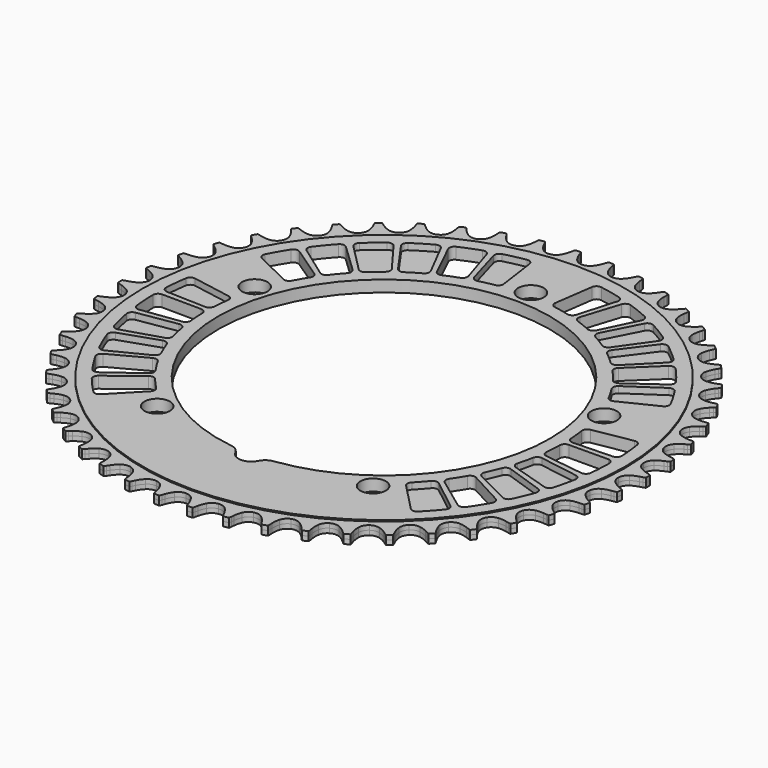
from build123d import *

# Parameters (mm, degrees)
F0_R     = 94.548198
F0_R_2   = 5
F1_DEPTH = 2.25
F2_DEPTH = 1.75
F3_R     = 5.08
F5_DEPTH = 4.5
F6_DEPTH = 2.5
F7_R     = 2


with BuildPart() as f1:
    # F0 (on Top) → F1 (new body, symmetric)
    with BuildSketch(Plane.XY):
        Circle(F0_R)
        with Locations((-42.3205381651, -58.249223595)):
            Circle(F0_R_2, mode=Mode.SUBTRACT)
        with Locations((42.3205381651, -58.249223595)):
            Circle(F0_R_2, mode=Mode.SUBTRACT)
        with BuildLine():
            ThreePointArc((-4.9963004064, -64.8076923077), (-44.1601657242, 47.6956996302), (65, 0))
            ThreePointArc((65, 0), (47.6956996302, -44.1601657242), (4.9963004064, -64.8076923077))
            ThreePointArc((4.9963004064, -64.8076923077), (4.9990750161, -64.9038283624), (5, -65))
            ThreePointArc((5, -65), (-0.0961716376, -69.9990750161), (-4.9963004064, -64.8076923077))
        make_face(mode=Mode.SUBTRACT)
        with Locations((-68.4760691733, 22.249223595)):
            Circle(F0_R_2, mode=Mode.SUBTRACT)
        with Locations((68.4760691733, 22.249223595)):
            Circle(F0_R_2, mode=Mode.SUBTRACT)
        with Locations((0, 72)):
            Circle(F0_R_2, mode=Mode.SUBTRACT)
    extrude(amount=F1_DEPTH, both=True)

    # F0 (on Top) → F2 (join, symmetric)
    with BuildSketch(Plane.XY):
        with BuildLine():
            ThreePointArc((0, 97.04819935), (-1.8166103321, 97.4826526229), (-3.2400971577, 98.6919945936))
            ThreePointArc((-3.2400971577, 98.6919945936), (-4.0569512973, 99.983682471), (-4.6755482164, 101.381196732))
            Line((-4.6755482164, 101.381196732), (-5.0622417218, 102.4841856331))
            ThreePointArc((-5.0622417218, 102.4841856331), (-5.2385890004, 102.9324556245), (-5.4481178225, 103.3662090343))
            ThreePointArc((-5.4481178225, 103.3662090343), (-6.4994269791, 103.3054335786), (-7.5500634333, 103.2339658256))
            ThreePointArc((-7.5500634333, 103.2339658256), (-7.7035763407, 102.7773717662), (-7.8223499408, 102.3105343429))
            Line((-7.8223499408, 102.3105343429), (-8.0677530869, 101.1677772913))
            ThreePointArc((-8.0677530869, 101.1677772913), (-8.5063172032, 99.7037520956), (-9.1548387855, 98.3198705922))
            ThreePointArc((-9.1548387855, 98.3198705922), (-10.4155302527, 96.9416544374), (-12.1633646361, 96.2829453112))
            ThreePointArc((-12.1633646361, 96.2829453112), (-14.0201018866, 96.4862911433), (-15.5839348331, 97.5076868846))
            ThreePointArc((-15.5839348331, 97.5076868846), (-16.5562392523, 98.6868104466), (-17.3451133312, 99.995774138))
            Line((-17.3451133312, 99.995774138), (-17.8669988084, 101.0416000948))
            ThreePointArc((-17.8669988084, 101.0416000948), (-18.0981386636, 101.4642331687), (-18.3603790058, 101.8683053785))
            ThreePointArc((-18.3603790058, 101.8683053785), (-19.3957810913, 101.6762451794), (-20.4291756787, 101.4736613068))
            ThreePointArc((-20.4291756787, 101.4736613068), (-20.524251681, 101.0014273589), (-20.583578472, 100.5233848088))
            Line((-20.583578472, 100.5233848088), (-20.6838211045, 99.3588815681))
            ThreePointArc((-20.6838211045, 99.3588815681), (-20.935436, 97.8514339894), (-21.4053974522, 96.3971834981))
            ThreePointArc((-21.4053974522, 96.3971834981), (-22.4834117034, 94.8718284512), (-24.1349057459, 93.9992517083))
            ThreePointArc((-24.1349057459, 93.9992517083), (-26.0024880593, 93.9682832142), (-27.6820045469, 94.7856247051))
            ThreePointArc((-27.6820045469, 94.7856247051), (-28.7944254241, 95.8335884687), (-29.7411356474, 97.0333584513))
            Line((-29.7411356474, 97.0333584513), (-30.3899826506, 98.0055281636))
            ThreePointArc((-30.3899826506, 98.0055281636), (-30.6722698687, 98.3958591441), (-30.9830860441, 98.7638776938))
            ThreePointArc((-30.9830860441, 98.7638776938), (-31.9862521491, 98.4435616553), (-32.9861076197, 98.1130565319))
            ThreePointArc((-32.9861076197, 98.1130565319), (-33.0212473117, 97.6326301068), (-33.0201916746, 97.1509214465))
            Line((-33.0201916746, 97.1509214465), (-32.9736929074, 95.9830369283))
            ThreePointArc((-32.9736929074, 95.9830369283), (-33.0343904648, 94.4559403156), (-33.3183802142, 92.9542552354))
            ThreePointArc((-33.3183802142, 92.9542552354), (-34.1967163206, 91.3058170567), (-35.7258249746, 90.2331337534))
            ThreePointArc((-35.7258249746, 90.2331337534), (-37.5747994621, 89.9683393249), (-39.3435125125, 90.5687366018))
            ThreePointArc((-39.3435125125, 90.5687366018), (-40.578506306, 91.4690135525), (-41.6681224878, 92.5406687369))
            Line((-41.6681224878, 92.5406687369), (-42.4336983123, 93.4238505077))
            ThreePointArc((-42.4336983123, 93.4238505077), (-42.7626810553, 93.7757236419), (-43.1171713072, 94.1018846591))
            ThreePointArc((-43.1171713072, 94.1018846591), (-44.0722809029, 93.6583643565), (-45.0228289387, 93.2051502455))
            ThreePointArc((-45.0228289387, 93.2051502455), (-44.9974781463, 92.7241079551), (-44.9360567292, 92.2463300178))
            Line((-44.9360567292, 92.2463300178), (-44.7435498756, 91.0934824588))
            ThreePointArc((-44.7435498756, 91.0934824588), (-44.6123728582, 89.5708200379), (-44.7059122167, 88.0453828394))
            ThreePointArc((-44.7059122167, 88.0453828394), (-45.3707182933, 86.2998583837), (-46.7533266018, 85.0439853766))
            ThreePointArc((-46.7533266018, 85.0439853766), (-48.5545338313, 84.54954098), (-50.3845497832, 84.9235254191))
            ThreePointArc((-50.3845497832, 84.9235254191), (-51.7226399031, 85.6619176516), (-52.9379781454, 86.5885573954))
            Line((-52.9379781454, 86.5885573954), (-53.8082092029, 87.3688229205))
            ThreePointArc((-53.8082092029, 87.3688229205), (-54.1786992165, 87.676688959), (-54.5712730218, 87.9558486896))
            ThreePointArc((-54.5712730218, 87.9558486896), (-55.4632634594, 87.396118703), (-56.34951335, 86.8273430617))
            ThreePointArc((-56.34951335, 86.8273430617), (-56.2640718704, 86.3532712302), (-56.1432533258, 85.8869588595))
            Line((-56.1432533258, 85.8869588595), (-55.8077743338, 84.7673293542))
            ThreePointArc((-55.8077743338, 84.7673293542), (-55.4867914815, 83.2731144211), (-55.3884052775, 81.7479821603))
            ThreePointArc((-55.3884052775, 81.7479821603), (-55.8291969353, 79.932899391), (-57.0435003395, 78.5136425476))
            ThreePointArc((-57.0435003395, 78.5136425476), (-58.7685341969, 77.7973458663), (-60.6309926054, 77.9390195098))
            ThreePointArc((-60.6309926054, 77.9390195098), (-62.0510765712, 78.5038821374), (-63.3729702639, 79.2708927783))
            Line((-63.3729702639, 79.2708927783), (-64.3341324909, 79.9359368042))
            ThreePointArc((-64.3341324909, 79.9359368042), (-64.7402869262, 80.1949405157), (-65.1647531615, 80.422696444))
            ThreePointArc((-65.1647531615, 80.422696444), (-65.979557219, 79.7555840497), (-66.7875322741, 79.0802168096))
            ThreePointArc((-66.7875322741, 79.0802168096), (-66.6433475706, 78.6205918331), (-66.465037279, 78.1730990536))
            Line((-66.465037279, 78.1730990536), (-65.9918768527, 77.1043448282))
            ThreePointArc((-65.9918768527, 77.1043448282), (-65.4861502569, 75.6621420449), (-65.1973900997, 74.1613669686))
            ThreePointArc((-65.1973900997, 74.1613669686), (-65.4072157909, 72.3053508253), (-66.4340640006, 70.7450926739))
            ThreePointArc((-66.4340640006, 70.7450926739), (-68.0557196716, 69.8182401345), (-69.9212484551, 69.7253687042))
            ThreePointArc((-69.9212484551, 69.7253687042), (-71.4009306943, 70.107793506), (-72.8085327842, 70.7030788279))
            Line((-72.8085327842, 70.7030788279), (-73.8454680782, 71.2424132132))
            ThreePointArc((-73.8454680782, 71.2424132132), (-74.2808816371, 71.4484699543), (-74.7305462163, 71.6212302333))
            ThreePointArc((-74.7305462163, 71.6212302333), (-75.4553139469, 70.8572561923), (-76.1722719174, 70.0859482983))
            ThreePointArc((-76.1722719174, 70.0859482983), (-75.9716178688, 69.6480187371), (-75.73862789, 69.2264027772))
            Line((-75.73862789, 69.2264027772), (-75.1352480521, 68.2253787244))
            ThreePointArc((-75.1352480521, 68.2253787244), (-74.4527533233, 66.8579324903), (-73.978173133, 65.405182718))
            ThreePointArc((-73.978173133, 65.405182718), (-73.9537237812, 63.537503684), (-74.7769227867, 61.8608504276))
            ThreePointArc((-74.7769227867, 61.8608504276), (-76.2696257925, 60.7380590484), (-78.1088044478, 60.4121071823))
            ThreePointArc((-78.1088044478, 60.4121071823), (-79.6247494875, 60.6060630906), (-81.0958612488, 61.0202350885))
            Line((-81.0958612488, 61.0202350885), (-82.1922165208, 61.4253542076))
            ThreePointArc((-82.1922165208, 61.4253542076), (-82.6500224714, 61.5752143405), (-83.1177939155, 61.6902544374))
            ThreePointArc((-83.1177939155, 61.6902544374), (-83.7410952991, 60.8414670766), (-84.3557293294, 59.9863825149))
            ThreePointArc((-84.3557293294, 59.9863825149), (-84.1017703699, 59.5770547798), (-83.8177750952, 59.1879647752))
            Line((-83.8177750952, 59.1879647752), (-83.0936915061, 58.2704576422))
            ThreePointArc((-83.0936915061, 58.2704576422), (-82.2451919938, 56.9993334013), (-81.5922761835, 55.6175196647))
            ThreePointArc((-81.5922761835, 55.6175196647), (-81.3339373696, 53.7676321541), (-81.9405048309, 52.0010256162))
            ThreePointArc((-81.9405048309, 52.0010256162), (-83.2807143535, 50.7000024879), (-85.0645379343, 50.1461106417))
            ThreePointArc((-85.0645379343, 50.1461106417), (-86.5928384158, 50.148538856), (-88.1042595372, 50.3750657899))
            Line((-88.1042595372, 50.3750657899), (-89.2427446096, 50.6395806725))
            ThreePointArc((-89.2427446096, 50.6395806725), (-89.7157230785, 50.7308808133), (-90.1942243524, 50.786386477))
            ThreePointArc((-90.1942243524, 50.786386477), (-90.7062295539, 49.8661716801), (-91.2088464982, 48.9407956452))
            ThreePointArc((-91.2088464982, 48.9407956452), (-90.9055877124, 48.5665250792), (-90.5750659167, 48.2160972115))
            Line((-90.5750659167, 48.2160972115), (-89.7416978072, 47.3965766339))
            ThreePointArc((-89.7416978072, 47.3965766339), (-88.7405748557, 46.2418207749), (-87.9196202978, 44.9527351021))
            ThreePointArc((-87.9196202978, 44.9527351021), (-87.4314661791, 43.1498129459), (-87.811836165, 41.3211135669))
            ThreePointArc((-87.811836165, 41.3211135669), (-88.9784162996, 39.8623766014), (-90.6787528426, 39.0892799804))
            ThreePointArc((-90.6787528426, 39.0892799804), (-92.1953065542, 38.9001422063), (-93.7232010217, 38.9354516113))
            Line((-93.7232010217, 38.9354516113), (-94.8858613048, 39.0551906995))
            ThreePointArc((-94.8858613048, 39.0551906995), (-95.3665531392, 39.0864909905), (-95.8482379919, 39.0815868635))
            ThreePointArc((-95.8482379919, 39.0815868635), (-96.2408723834, 38.1044569677), (-96.6235456723, 37.1233831924))
            ThreePointArc((-96.6235456723, 37.1233831923), (-96.2757696322, 36.7900722657), (-95.9039338419, 36.4838329919))
            Line((-95.9039338419, 36.4838329919), (-94.9744239249, 35.7752232987))
            ThreePointArc((-94.9744239249, 35.7752232987), (-93.836465841, 34.7550470113), (-92.8604194793, 33.5790190534))
            ThreePointArc((-92.8604194793, 33.5790190534), (-92.150148538, 31.8514954111), (-92.2983223865, 29.9895428726))
            ThreePointArc((-92.2983223865, 29.9895428726), (-93.2728754675, 28.3960972234), (-94.8629096496, 27.415988023))
            ThreePointArc((-94.8629096496, 27.415988023), (-96.3437996335, 27.0382670762), (-97.8640716387, 26.8818021018))
            Line((-97.8640716387, 26.8818021018), (-99.0325712853, 26.8548770387))
            ThreePointArc((-99.0325712853, 26.8548770387), (-99.5133956876, 26.8256838557), (-99.9906676613, 26.7604472791))
            ThreePointArc((-99.9906676613, 26.7604472791), (-100.2577391639, 25.7418122064), (-100.5144338109, 24.7205128101))
            ThreePointArc((-100.5144338109, 24.7205128101), (-100.1276251526, 24.4334180354), (-99.7203394401, 24.1761969316))
            Line((-99.7203394401, 24.1761969316), (-98.7093466423, 23.589673321))
            ThreePointArc((-98.7093466423, 23.589673321), (-97.4524997049, 22.7201653947), (-96.3367543735, 21.6757418151))
            ThreePointArc((-96.3367543735, 21.6757418151), (-95.4155680066, 20.0508607665), (-95.3292089277, 18.1850191724))
            ThreePointArc((-95.3292089277, 18.1850191724), (-96.0963656708, 16.4819944291), (-97.5510217031, 15.310329557))
            ThreePointArc((-97.5510217031, 15.310329557), (-98.9728934395, 14.7499823224), (-100.4615673847, 14.4042105148))
            Line((-100.4615673847, 14.4042105148), (-101.6174784573, 14.2310459247))
            ThreePointArc((-101.6174784573, 14.2310459247), (-102.0908525396, 14.1418196615), (-102.5561847701, 14.0172794551))
            ThreePointArc((-102.5561847701, 14.0172794551), (-102.6934815067, 12.9732036892), (-102.820149284, 11.9277851735))
            ThreePointArc((-102.820149284, 11.9277851735), (-102.400408211, 11.6914342067), (-101.9640957154, 11.4872878036))
            Line((-101.9640957154, 11.4872878036), (-100.887563997, 11.0321001033))
            ThreePointArc((-100.887563997, 11.0321001033), (-99.5316494331, 10.3269731974), (-98.2938011025, 9.43062518))
            ThreePointArc((-98.2938011025, 9.43062518), (-97.1762269692, 7.9340120698), (-96.8566968971, 6.0937068566))
            ThreePointArc((-96.8566968971, 6.0937068566), (-97.4043587823, 4.3079607368), (-98.7006958702, 2.9632180479))
            ThreePointArc((-98.7006958702, 2.9632180479), (-100.0411255924, 2.2290815362), (-101.4747242002, 1.6994559233))
            Line((-101.4747242002, 1.6994559233), (-102.5998172908, 1.3827827153))
            ThreePointArc((-102.5998172908, 1.3827827153), (-103.0582756609, 1.2349305234), (-103.504329581, 1.0530507605))
            ThreePointArc((-103.504329581, 1.0530507605), (-103.5096863, 0), (-103.504329581, -1.0530507605))
            ThreePointArc((-103.504329581, -1.0530507605), (-103.0582756609, -1.2349305234), (-102.5998172908, -1.3827827153))
            Line((-102.5998172908, -1.3827827153), (-101.4747242002, -1.6994559233))
            ThreePointArc((-101.4747242002, -1.6994559233), (-100.0411255924, -2.2290815362), (-98.7006958702, -2.9632180479))
            ThreePointArc((-98.7006958702, -2.9632180479), (-97.4043587823, -4.3079607368), (-96.8566968971, -6.0937068566))
            ThreePointArc((-96.8566968971, -6.0937068566), (-97.1762269692, -7.9340120698), (-98.2938011025, -9.43062518))
            ThreePointArc((-98.2938011025, -9.43062518), (-99.5316494331, -10.3269731974), (-100.887563997, -11.0321001033))
            Line((-100.887563997, -11.0321001033), (-101.9640957154, -11.4872878036))
            ThreePointArc((-101.9640957154, -11.4872878036), (-102.400408211, -11.6914342067), (-102.820149284, -11.9277851735))
            ThreePointArc((-102.820149284, -11.9277851735), (-102.6934815067, -12.9732036892), (-102.5561847701, -14.0172794551))
            ThreePointArc((-102.5561847701, -14.0172794551), (-102.0908525396, -14.1418196615), (-101.6174784573, -14.2310459247))
            Line((-101.6174784573, -14.2310459247), (-100.4615673847, -14.4042105148))
            ThreePointArc((-100.4615673847, -14.4042105148), (-98.9728934395, -14.7499823224), (-97.5510217031, -15.310329557))
            ThreePointArc((-97.5510217031, -15.310329557), (-96.0963656708, -16.4819944291), (-95.3292089277, -18.1850191724))
            ThreePointArc((-95.3292089277, -18.1850191724), (-95.4155680066, -20.0508607665), (-96.3367543735, -21.6757418151))
            ThreePointArc((-96.3367543735, -21.6757418151), (-97.4524997049, -22.7201653947), (-98.7093466423, -23.589673321))
            Line((-98.7093466423, -23.589673321), (-99.7203394401, -24.1761969316))
            ThreePointArc((-99.7203394401, -24.1761969316), (-100.1276251526, -24.4334180354), (-100.5144338109, -24.7205128101))
            ThreePointArc((-100.5144338109, -24.7205128101), (-100.2577391639, -25.7418122064), (-99.9906676613, -26.7604472791))
            ThreePointArc((-99.9906676613, -26.7604472791), (-99.5133956876, -26.8256838557), (-99.0325712853, -26.8548770387))
            Line((-99.0325712853, -26.8548770387), (-97.8640716387, -26.8818021018))
            ThreePointArc((-97.8640716387, -26.8818021018), (-96.3437996335, -27.0382670762), (-94.8629096496, -27.415988023))
            ThreePointArc((-94.8629096496, -27.415988023), (-93.2728754675, -28.3960972234), (-92.2983223865, -29.9895428726))
            ThreePointArc((-92.2983223865, -29.9895428726), (-92.150148538, -31.8514954111), (-92.8604194793, -33.5790190534))
            ThreePointArc((-92.8604194793, -33.5790190534), (-93.836465841, -34.7550470113), (-94.9744239249, -35.7752232987))
            Line((-94.9744239249, -35.7752232987), (-95.9039338419, -36.4838329919))
            ThreePointArc((-95.9039338419, -36.4838329919), (-96.2757696322, -36.7900722657), (-96.6235456723, -37.1233831923))
            ThreePointArc((-96.6235456723, -37.1233831924), (-96.2408723834, -38.1044569677), (-95.8482379919, -39.0815868635))
            ThreePointArc((-95.8482379919, -39.0815868635), (-95.3665531392, -39.0864909905), (-94.8858613048, -39.0551906995))
            Line((-94.8858613048, -39.0551906995), (-93.7232010217, -38.9354516113))
            ThreePointArc((-93.7232010217, -38.9354516113), (-92.1953065542, -38.9001422063), (-90.6787528426, -39.0892799804))
            ThreePointArc((-90.6787528426, -39.0892799804), (-88.9784162996, -39.8623766014), (-87.811836165, -41.3211135669))
            ThreePointArc((-87.811836165, -41.3211135669), (-87.4314661791, -43.1498129459), (-87.9196202978, -44.9527351021))
            ThreePointArc((-87.9196202978, -44.9527351021), (-88.7405748557, -46.2418207749), (-89.7416978072, -47.3965766339))
            Line((-89.7416978072, -47.3965766339), (-90.5750659167, -48.2160972115))
            ThreePointArc((-90.5750659167, -48.2160972115), (-90.9055877124, -48.5665250792), (-91.2088464982, -48.9407956452))
            ThreePointArc((-91.2088464982, -48.9407956452), (-90.7062295539, -49.8661716801), (-90.1942243524, -50.786386477))
            ThreePointArc((-90.1942243524, -50.786386477), (-89.7157230785, -50.7308808133), (-89.2427446096, -50.6395806725))
            Line((-89.2427446096, -50.6395806725), (-88.1042595372, -50.3750657899))
            ThreePointArc((-88.1042595372, -50.3750657899), (-86.5928384158, -50.148538856), (-85.0645379343, -50.1461106417))
            ThreePointArc((-85.0645379343, -50.1461106417), (-83.2807143535, -50.7000024879), (-81.9405048309, -52.0010256162))
            ThreePointArc((-81.9405048309, -52.0010256162), (-81.3339373696, -53.7676321541), (-81.5922761835, -55.6175196647))
            ThreePointArc((-81.5922761835, -55.6175196647), (-82.2451919938, -56.9993334013), (-83.0936915061, -58.2704576422))
            Line((-83.0936915061, -58.2704576422), (-83.8177750952, -59.1879647752))
            ThreePointArc((-83.8177750952, -59.1879647752), (-84.1017703699, -59.5770547798), (-84.3557293294, -59.9863825149))
            ThreePointArc((-84.3557293294, -59.9863825149), (-83.7410952991, -60.8414670766), (-83.1177939155, -61.6902544374))
            ThreePointArc((-83.1177939155, -61.6902544374), (-82.6500224714, -61.5752143405), (-82.1922165208, -61.4253542076))
            Line((-82.1922165208, -61.4253542076), (-81.0958612488, -61.0202350885))
            ThreePointArc((-81.0958612488, -61.0202350885), (-79.6247494875, -60.6060630906), (-78.1088044478, -60.4121071823))
            ThreePointArc((-78.1088044478, -60.4121071823), (-76.2696257925, -60.7380590484), (-74.7769227867, -61.8608504276))
            ThreePointArc((-74.7769227867, -61.8608504276), (-73.9537237812, -63.537503684), (-73.978173133, -65.405182718))
            ThreePointArc((-73.978173133, -65.405182718), (-74.4527533233, -66.8579324903), (-75.1352480521, -68.2253787244))
            Line((-75.1352480521, -68.2253787244), (-75.73862789, -69.2264027772))
            ThreePointArc((-75.73862789, -69.2264027772), (-75.9716178688, -69.6480187371), (-76.1722719174, -70.0859482983))
            ThreePointArc((-76.1722719174, -70.0859482983), (-75.4553139469, -70.8572561923), (-74.7305462163, -71.6212302333))
            ThreePointArc((-74.7305462163, -71.6212302333), (-74.2808816371, -71.4484699543), (-73.8454680782, -71.2424132132))
            Line((-73.8454680782, -71.2424132132), (-72.8085327842, -70.7030788279))
            ThreePointArc((-72.8085327842, -70.7030788279), (-71.4009306943, -70.107793506), (-69.9212484551, -69.7253687042))
            ThreePointArc((-69.9212484551, -69.7253687042), (-68.0557196716, -69.8182401345), (-66.4340640006, -70.7450926739))
            ThreePointArc((-66.4340640006, -70.7450926739), (-65.4072157909, -72.3053508253), (-65.1973900997, -74.1613669686))
            ThreePointArc((-65.1973900997, -74.1613669686), (-65.4861502569, -75.6621420449), (-65.9918768527, -77.1043448282))
            Line((-65.9918768527, -77.1043448282), (-66.465037279, -78.1730990536))
            ThreePointArc((-66.465037279, -78.1730990536), (-66.6433475706, -78.6205918331), (-66.7875322741, -79.0802168096))
            ThreePointArc((-66.7875322741, -79.0802168096), (-65.979557219, -79.7555840497), (-65.1647531615, -80.422696444))
            ThreePointArc((-65.1647531615, -80.422696444), (-64.7402869262, -80.1949405157), (-64.3341324909, -79.9359368042))
            Line((-64.3341324909, -79.9359368042), (-63.3729702639, -79.2708927783))
            ThreePointArc((-63.3729702639, -79.2708927783), (-62.0510765712, -78.5038821374), (-60.6309926054, -77.9390195098))
            ThreePointArc((-60.6309926054, -77.9390195098), (-58.7685341969, -77.7973458663), (-57.0435003395, -78.5136425476))
            ThreePointArc((-57.0435003395, -78.5136425476), (-55.8291969353, -79.932899391), (-55.3884052775, -81.7479821603))
            ThreePointArc((-55.3884052775, -81.7479821603), (-55.4867914815, -83.2731144211), (-55.8077743338, -84.7673293542))
            Line((-55.8077743338, -84.7673293542), (-56.1432533258, -85.8869588595))
            ThreePointArc((-56.1432533258, -85.8869588595), (-56.2640718704, -86.3532712302), (-56.34951335, -86.8273430617))
            ThreePointArc((-56.34951335, -86.8273430617), (-55.4632634594, -87.396118703), (-54.5712730218, -87.9558486896))
            ThreePointArc((-54.5712730218, -87.9558486896), (-54.1786992165, -87.676688959), (-53.8082092029, -87.3688229205))
            Line((-53.8082092029, -87.3688229205), (-52.9379781454, -86.5885573954))
            ThreePointArc((-52.9379781454, -86.5885573954), (-51.7226399031, -85.6619176516), (-50.3845497832, -84.9235254191))
            ThreePointArc((-50.3845497832, -84.9235254191), (-48.5545338313, -84.54954098), (-46.7533266018, -85.0439853766))
            ThreePointArc((-46.7533266018, -85.0439853766), (-45.3707182933, -86.2998583837), (-44.7059122167, -88.0453828394))
            ThreePointArc((-44.7059122167, -88.0453828394), (-44.6123728582, -89.5708200379), (-44.7435498756, -91.0934824588))
            Line((-44.7435498756, -91.0934824588), (-44.9360567292, -92.2463300178))
            ThreePointArc((-44.9360567292, -92.2463300178), (-44.9974781463, -92.7241079551), (-45.0228289387, -93.2051502455))
            ThreePointArc((-45.0228289387, -93.2051502455), (-44.0722809029, -93.6583643565), (-43.1171713072, -94.1018846591))
            ThreePointArc((-43.1171713072, -94.1018846591), (-42.7626810553, -93.7757236419), (-42.4336983123, -93.4238505077))
            Line((-42.4336983123, -93.4238505077), (-41.6681224878, -92.5406687369))
            ThreePointArc((-41.6681224878, -92.5406687369), (-40.578506306, -91.4690135525), (-39.3435125125, -90.5687366018))
            ThreePointArc((-39.3435125125, -90.5687366018), (-37.5747994621, -89.9683393249), (-35.7258249746, -90.2331337534))
            ThreePointArc((-35.7258249746, -90.2331337534), (-34.1967163206, -91.3058170567), (-33.3183802142, -92.9542552354))
            ThreePointArc((-33.3183802142, -92.9542552354), (-33.0343904648, -94.4559403156), (-32.9736929074, -95.9830369283))
            Line((-32.9736929074, -95.9830369283), (-33.0201916746, -97.1509214465))
            ThreePointArc((-33.0201916746, -97.1509214465), (-33.0212473117, -97.6326301068), (-32.9861076197, -98.1130565319))
            ThreePointArc((-32.9861076197, -98.1130565319), (-31.9862521491, -98.4435616553), (-30.9830860441, -98.7638776938))
            ThreePointArc((-30.9830860441, -98.7638776938), (-30.6722698687, -98.3958591441), (-30.3899826506, -98.0055281636))
            Line((-30.3899826506, -98.0055281636), (-29.7411356474, -97.0333584513))
            ThreePointArc((-29.7411356474, -97.0333584513), (-28.7944254241, -95.8335884687), (-27.6820045469, -94.7856247051))
            ThreePointArc((-27.6820045469, -94.7856247051), (-26.0024880593, -93.9682832142), (-24.1349057459, -93.9992517083))
            ThreePointArc((-24.1349057459, -93.9992517083), (-22.4834117034, -94.8718284512), (-21.4053974522, -96.3971834981))
            ThreePointArc((-21.4053974522, -96.3971834981), (-20.935436, -97.8514339894), (-20.6838211045, -99.3588815681))
            Line((-20.6838211045, -99.3588815681), (-20.583578472, -100.5233848088))
            ThreePointArc((-20.583578472, -100.5233848088), (-20.524251681, -101.0014273589), (-20.4291756787, -101.4736613068))
            ThreePointArc((-20.4291756787, -101.4736613068), (-19.3957810913, -101.6762451794), (-18.3603790058, -101.8683053785))
            ThreePointArc((-18.3603790058, -101.8683053785), (-18.0981386636, -101.4642331687), (-17.8669988084, -101.0416000948))
            Line((-17.8669988084, -101.0416000948), (-17.3451133312, -99.995774138))
            ThreePointArc((-17.3451133312, -99.995774138), (-16.5562392523, -98.6868104466), (-15.5839348331, -97.5076868846))
            ThreePointArc((-15.5839348331, -97.5076868846), (-14.0201018866, -96.4862911433), (-12.1633646361, -96.2829453112))
            ThreePointArc((-12.1633646361, -96.2829453112), (-10.4155302527, -96.9416544374), (-9.1548387855, -98.3198705922))
            ThreePointArc((-9.1548387855, -98.3198705922), (-8.5063172032, -99.7037520956), (-8.0677530869, -101.1677772913))
            Line((-8.0677530869, -101.1677772913), (-7.8223499408, -102.3105343429))
            ThreePointArc((-7.8223499408, -102.3105343429), (-7.7035763407, -102.7773717662), (-7.5500634333, -103.2339658256))
            ThreePointArc((-7.5500634333, -103.2339658256), (-6.4994269791, -103.3054335786), (-5.4481178225, -103.3662090343))
            ThreePointArc((-5.4481178225, -103.3662090343), (-5.2385890004, -102.9324556245), (-5.0622417218, -102.4841856331))
            Line((-5.0622417218, -102.4841856331), (-4.6755482164, -101.381196732))
            ThreePointArc((-4.6755482164, -101.381196732), (-4.0569512973, -99.983682471), (-3.2400971577, -98.6919945936))
            ThreePointArc((-3.2400971577, -98.6919945936), (-1.8166103321, -97.4826526229), (0, -97.04819935))
            ThreePointArc((0, -97.04819935), (1.8166103321, -97.4826526229), (3.2400971577, -98.6919945936))
            ThreePointArc((3.2400971577, -98.6919945936), (4.0569512973, -99.983682471), (4.6755482164, -101.381196732))
            Line((4.6755482164, -101.381196732), (5.0622417218, -102.4841856331))
            ThreePointArc((5.0622417218, -102.4841856331), (5.2385890004, -102.9324556245), (5.4481178225, -103.3662090343))
            ThreePointArc((5.4481178225, -103.3662090343), (6.4994269791, -103.3054335786), (7.5500634333, -103.2339658256))
            ThreePointArc((7.5500634333, -103.2339658256), (7.7035763407, -102.7773717662), (7.8223499408, -102.3105343429))
            Line((7.8223499408, -102.3105343429), (8.0677530869, -101.1677772913))
            ThreePointArc((8.0677530869, -101.1677772913), (8.5063172032, -99.7037520956), (9.1548387855, -98.3198705922))
            ThreePointArc((9.1548387855, -98.3198705922), (10.4155302527, -96.9416544374), (12.1633646361, -96.2829453112))
            ThreePointArc((12.1633646361, -96.2829453112), (14.0201018866, -96.4862911433), (15.5839348331, -97.5076868846))
            ThreePointArc((15.5839348331, -97.5076868846), (16.5562392523, -98.6868104466), (17.3451133312, -99.995774138))
            Line((17.3451133312, -99.995774138), (17.8669988084, -101.0416000948))
            ThreePointArc((17.8669988084, -101.0416000948), (18.0981386636, -101.4642331687), (18.3603790058, -101.8683053785))
            ThreePointArc((18.3603790058, -101.8683053785), (19.3957810913, -101.6762451794), (20.4291756787, -101.4736613068))
            ThreePointArc((20.4291756787, -101.4736613068), (20.524251681, -101.0014273589), (20.583578472, -100.5233848088))
            Line((20.583578472, -100.5233848088), (20.6838211045, -99.3588815681))
            ThreePointArc((20.6838211045, -99.3588815681), (20.935436, -97.8514339894), (21.4053974522, -96.3971834981))
            ThreePointArc((21.4053974522, -96.3971834981), (22.4834117034, -94.8718284512), (24.1349057459, -93.9992517083))
            ThreePointArc((24.1349057459, -93.9992517083), (26.0024880593, -93.9682832142), (27.6820045469, -94.7856247051))
            ThreePointArc((27.6820045469, -94.7856247051), (28.7944254241, -95.8335884687), (29.7411356474, -97.0333584513))
            Line((29.7411356474, -97.0333584513), (30.3899826506, -98.0055281636))
            ThreePointArc((30.3899826506, -98.0055281636), (30.6722698687, -98.3958591441), (30.9830860441, -98.7638776938))
            ThreePointArc((30.9830860441, -98.7638776938), (31.9862521491, -98.4435616553), (32.9861076197, -98.1130565319))
            ThreePointArc((32.9861076197, -98.1130565319), (33.0212473117, -97.6326301068), (33.0201916746, -97.1509214465))
            Line((33.0201916746, -97.1509214465), (32.9736929074, -95.9830369283))
            ThreePointArc((32.9736929074, -95.9830369283), (33.0343904648, -94.4559403156), (33.3183802142, -92.9542552354))
            ThreePointArc((33.3183802142, -92.9542552354), (34.1967163206, -91.3058170567), (35.7258249746, -90.2331337534))
            ThreePointArc((35.7258249746, -90.2331337534), (37.5747994621, -89.9683393249), (39.3435125125, -90.5687366018))
            ThreePointArc((39.3435125125, -90.5687366018), (40.578506306, -91.4690135525), (41.6681224878, -92.5406687369))
            Line((41.6681224878, -92.5406687369), (42.4336983123, -93.4238505077))
            ThreePointArc((42.4336983123, -93.4238505077), (42.7626810553, -93.7757236419), (43.1171713072, -94.1018846591))
            ThreePointArc((43.1171713072, -94.1018846591), (44.0722809029, -93.6583643565), (45.0228289387, -93.2051502455))
            ThreePointArc((45.0228289387, -93.2051502455), (44.9974781463, -92.7241079551), (44.9360567292, -92.2463300178))
            Line((44.9360567292, -92.2463300178), (44.7435498756, -91.0934824588))
            ThreePointArc((44.7435498756, -91.0934824588), (44.6123728582, -89.5708200379), (44.7059122167, -88.0453828394))
            ThreePointArc((44.7059122167, -88.0453828394), (45.3707182933, -86.2998583837), (46.7533266018, -85.0439853766))
            ThreePointArc((46.7533266018, -85.0439853766), (48.5545338313, -84.54954098), (50.3845497832, -84.9235254191))
            ThreePointArc((50.3845497832, -84.9235254191), (51.7226399031, -85.6619176516), (52.9379781454, -86.5885573954))
            Line((52.9379781454, -86.5885573954), (53.8082092029, -87.3688229205))
            ThreePointArc((53.8082092029, -87.3688229205), (54.1786992165, -87.676688959), (54.5712730218, -87.9558486896))
            ThreePointArc((54.5712730218, -87.9558486896), (55.4632634594, -87.396118703), (56.34951335, -86.8273430617))
            ThreePointArc((56.34951335, -86.8273430617), (56.2640718704, -86.3532712302), (56.1432533258, -85.8869588595))
            Line((56.1432533258, -85.8869588595), (55.8077743338, -84.7673293542))
            ThreePointArc((55.8077743338, -84.7673293542), (55.4867914815, -83.2731144211), (55.3884052775, -81.7479821603))
            ThreePointArc((55.3884052775, -81.7479821603), (55.8291969353, -79.932899391), (57.0435003395, -78.5136425476))
            ThreePointArc((57.0435003395, -78.5136425476), (58.7685341969, -77.7973458663), (60.6309926054, -77.9390195098))
            ThreePointArc((60.6309926054, -77.9390195098), (62.0510765712, -78.5038821374), (63.3729702639, -79.2708927783))
            Line((63.3729702639, -79.2708927783), (64.3341324909, -79.9359368042))
            ThreePointArc((64.3341324909, -79.9359368042), (64.7402869262, -80.1949405157), (65.1647531615, -80.422696444))
            ThreePointArc((65.1647531615, -80.422696444), (65.979557219, -79.7555840497), (66.7875322741, -79.0802168096))
            ThreePointArc((66.7875322741, -79.0802168096), (66.6433475706, -78.6205918331), (66.465037279, -78.1730990536))
            Line((66.465037279, -78.1730990536), (65.9918768527, -77.1043448282))
            ThreePointArc((65.9918768527, -77.1043448282), (65.4861502569, -75.6621420449), (65.1973900997, -74.1613669686))
            ThreePointArc((65.1973900997, -74.1613669686), (65.4072157909, -72.3053508253), (66.4340640006, -70.7450926739))
            ThreePointArc((66.4340640006, -70.7450926739), (68.0557196716, -69.8182401345), (69.9212484551, -69.7253687042))
            ThreePointArc((69.9212484551, -69.7253687042), (71.4009306943, -70.107793506), (72.8085327842, -70.7030788279))
            Line((72.8085327842, -70.7030788279), (73.8454680782, -71.2424132132))
            ThreePointArc((73.8454680782, -71.2424132132), (74.2808816371, -71.4484699543), (74.7305462163, -71.6212302333))
            ThreePointArc((74.7305462163, -71.6212302333), (75.4553139469, -70.8572561923), (76.1722719174, -70.0859482983))
            ThreePointArc((76.1722719174, -70.0859482983), (75.9716178688, -69.6480187371), (75.73862789, -69.2264027772))
            Line((75.73862789, -69.2264027772), (75.1352480521, -68.2253787244))
            ThreePointArc((75.1352480521, -68.2253787244), (74.4527533233, -66.8579324903), (73.978173133, -65.405182718))
            ThreePointArc((73.978173133, -65.405182718), (73.9537237812, -63.537503684), (74.7769227867, -61.8608504276))
            ThreePointArc((74.7769227867, -61.8608504276), (76.2696257925, -60.7380590484), (78.1088044478, -60.4121071823))
            ThreePointArc((78.1088044478, -60.4121071823), (79.6247494875, -60.6060630906), (81.0958612488, -61.0202350885))
            Line((81.0958612488, -61.0202350885), (82.1922165208, -61.4253542076))
            ThreePointArc((82.1922165208, -61.4253542076), (82.6500224714, -61.5752143405), (83.1177939155, -61.6902544374))
            ThreePointArc((83.1177939155, -61.6902544374), (83.7410952991, -60.8414670766), (84.3557293294, -59.9863825149))
            ThreePointArc((84.3557293294, -59.9863825149), (84.1017703699, -59.5770547798), (83.8177750952, -59.1879647752))
            Line((83.8177750952, -59.1879647752), (83.0936915061, -58.2704576422))
            ThreePointArc((83.0936915061, -58.2704576422), (82.2451919938, -56.9993334013), (81.5922761835, -55.6175196647))
            ThreePointArc((81.5922761835, -55.6175196647), (81.3339373696, -53.7676321541), (81.9405048309, -52.0010256162))
            ThreePointArc((81.9405048309, -52.0010256162), (83.2807143535, -50.7000024879), (85.0645379343, -50.1461106417))
            ThreePointArc((85.0645379343, -50.1461106417), (86.5928384158, -50.148538856), (88.1042595372, -50.3750657899))
            Line((88.1042595372, -50.3750657899), (89.2427446096, -50.6395806725))
            ThreePointArc((89.2427446096, -50.6395806725), (89.7157230785, -50.7308808133), (90.1942243524, -50.786386477))
            ThreePointArc((90.1942243524, -50.786386477), (90.7062295539, -49.8661716801), (91.2088464982, -48.9407956452))
            ThreePointArc((91.2088464982, -48.9407956452), (90.9055877124, -48.5665250792), (90.5750659167, -48.2160972115))
            Line((90.5750659167, -48.2160972115), (89.7416978072, -47.3965766339))
            ThreePointArc((89.7416978072, -47.3965766339), (88.7405748557, -46.2418207749), (87.9196202978, -44.9527351021))
            ThreePointArc((87.9196202978, -44.9527351021), (87.4314661791, -43.1498129459), (87.811836165, -41.3211135669))
            ThreePointArc((87.811836165, -41.3211135669), (88.9784162996, -39.8623766014), (90.6787528426, -39.0892799804))
            ThreePointArc((90.6787528426, -39.0892799804), (92.1953065542, -38.9001422063), (93.7232010217, -38.9354516113))
            Line((93.7232010217, -38.9354516113), (94.8858613048, -39.0551906995))
            ThreePointArc((94.8858613048, -39.0551906995), (95.3665531392, -39.0864909905), (95.8482379919, -39.0815868635))
            ThreePointArc((95.8482379919, -39.0815868635), (96.2408723834, -38.1044569677), (96.6235456723, -37.1233831924))
            ThreePointArc((96.6235456723, -37.1233831923), (96.2757696322, -36.7900722657), (95.9039338419, -36.4838329919))
            Line((95.9039338419, -36.4838329919), (94.9744239249, -35.7752232987))
            ThreePointArc((94.9744239249, -35.7752232987), (93.836465841, -34.7550470113), (92.8604194793, -33.5790190534))
            ThreePointArc((92.8604194793, -33.5790190534), (92.150148538, -31.8514954111), (92.2983223865, -29.9895428726))
            ThreePointArc((92.2983223865, -29.9895428726), (93.2728754675, -28.3960972234), (94.8629096496, -27.415988023))
            ThreePointArc((94.8629096496, -27.415988023), (96.3437996335, -27.0382670762), (97.8640716387, -26.8818021018))
            Line((97.8640716387, -26.8818021018), (99.0325712853, -26.8548770387))
            ThreePointArc((99.0325712853, -26.8548770387), (99.5133956876, -26.8256838557), (99.9906676613, -26.7604472791))
            ThreePointArc((99.9906676613, -26.7604472791), (100.2577391639, -25.7418122064), (100.5144338109, -24.7205128101))
            ThreePointArc((100.5144338109, -24.7205128101), (100.1276251526, -24.4334180354), (99.7203394401, -24.1761969316))
            Line((99.7203394401, -24.1761969316), (98.7093466423, -23.589673321))
            ThreePointArc((98.7093466423, -23.589673321), (97.4524997049, -22.7201653947), (96.3367543735, -21.6757418151))
            ThreePointArc((96.3367543735, -21.6757418151), (95.4155680066, -20.0508607665), (95.3292089277, -18.1850191724))
            ThreePointArc((95.3292089277, -18.1850191724), (96.0963656708, -16.4819944291), (97.5510217031, -15.310329557))
            ThreePointArc((97.5510217031, -15.310329557), (98.9728934395, -14.7499823224), (100.4615673847, -14.4042105148))
            Line((100.4615673847, -14.4042105148), (101.6174784573, -14.2310459247))
            ThreePointArc((101.6174784573, -14.2310459247), (102.0908525396, -14.1418196615), (102.5561847701, -14.0172794551))
            ThreePointArc((102.5561847701, -14.0172794551), (102.6934815067, -12.9732036892), (102.820149284, -11.9277851735))
            ThreePointArc((102.820149284, -11.9277851735), (102.400408211, -11.6914342067), (101.9640957154, -11.4872878036))
            Line((101.9640957154, -11.4872878036), (100.887563997, -11.0321001033))
            ThreePointArc((100.887563997, -11.0321001033), (99.5316494331, -10.3269731974), (98.2938011025, -9.43062518))
            ThreePointArc((98.2938011025, -9.43062518), (97.1762269692, -7.9340120698), (96.8566968971, -6.0937068566))
            ThreePointArc((96.8566968971, -6.0937068566), (97.4043587823, -4.3079607368), (98.7006958702, -2.9632180479))
            ThreePointArc((98.7006958702, -2.9632180479), (100.0411255924, -2.2290815362), (101.4747242002, -1.6994559233))
            Line((101.4747242002, -1.6994559233), (102.5998172908, -1.3827827153))
            ThreePointArc((102.5998172908, -1.3827827153), (103.0582756609, -1.2349305234), (103.504329581, -1.0530507605))
            ThreePointArc((103.504329581, -1.0530507605), (103.5083471116, -0.5265321924), (103.5096863, 0))
            ThreePointArc((103.5096863, 0), (103.5083471116, 0.5265321924), (103.504329581, 1.0530507605))
            ThreePointArc((103.504329581, 1.0530507605), (103.0582756609, 1.2349305234), (102.5998172908, 1.3827827153))
            Line((102.5998172908, 1.3827827153), (101.4747242002, 1.6994559233))
            ThreePointArc((101.4747242002, 1.6994559233), (100.0411255924, 2.2290815362), (98.7006958702, 2.9632180479))
            ThreePointArc((98.7006958702, 2.9632180479), (97.4043587823, 4.3079607368), (96.8566968971, 6.0937068566))
            ThreePointArc((96.8566968971, 6.0937068566), (97.1762269692, 7.9340120698), (98.2938011025, 9.43062518))
            ThreePointArc((98.2938011025, 9.43062518), (99.5316494331, 10.3269731974), (100.887563997, 11.0321001033))
            Line((100.887563997, 11.0321001033), (101.9640957154, 11.4872878036))
            ThreePointArc((101.9640957154, 11.4872878036), (102.400408211, 11.6914342067), (102.820149284, 11.9277851735))
            ThreePointArc((102.820149284, 11.9277851735), (102.6934815067, 12.9732036892), (102.5561847701, 14.0172794551))
            ThreePointArc((102.5561847701, 14.0172794551), (102.0908525396, 14.1418196615), (101.6174784573, 14.2310459247))
            Line((101.6174784573, 14.2310459247), (100.4615673847, 14.4042105148))
            ThreePointArc((100.4615673847, 14.4042105148), (98.9728934395, 14.7499823224), (97.5510217031, 15.310329557))
            ThreePointArc((97.5510217031, 15.310329557), (96.0963656708, 16.4819944291), (95.3292089277, 18.1850191724))
            ThreePointArc((95.3292089277, 18.1850191724), (95.4155680066, 20.0508607665), (96.3367543735, 21.6757418151))
            ThreePointArc((96.3367543735, 21.6757418151), (97.4524997049, 22.7201653947), (98.7093466423, 23.589673321))
            Line((98.7093466423, 23.589673321), (99.7203394401, 24.1761969316))
            ThreePointArc((99.7203394401, 24.1761969316), (100.1276251526, 24.4334180354), (100.5144338109, 24.7205128101))
            ThreePointArc((100.5144338109, 24.7205128101), (100.2577391639, 25.7418122064), (99.9906676613, 26.7604472791))
            ThreePointArc((99.9906676613, 26.7604472791), (99.5133956876, 26.8256838557), (99.0325712853, 26.8548770387))
            Line((99.0325712853, 26.8548770387), (97.8640716387, 26.8818021018))
            ThreePointArc((97.8640716387, 26.8818021018), (96.3437996335, 27.0382670762), (94.8629096496, 27.415988023))
            ThreePointArc((94.8629096496, 27.415988023), (93.2728754675, 28.3960972234), (92.2983223865, 29.9895428726))
            ThreePointArc((92.2983223865, 29.9895428726), (92.150148538, 31.8514954111), (92.8604194793, 33.5790190534))
            ThreePointArc((92.8604194793, 33.5790190534), (93.836465841, 34.7550470113), (94.9744239249, 35.7752232987))
            Line((94.9744239249, 35.7752232987), (95.9039338419, 36.4838329919))
            ThreePointArc((95.9039338419, 36.4838329919), (96.2757696322, 36.7900722657), (96.6235456723, 37.1233831923))
            ThreePointArc((96.6235456723, 37.1233831924), (96.2408723834, 38.1044569677), (95.8482379919, 39.0815868635))
            ThreePointArc((95.8482379919, 39.0815868635), (95.3665531392, 39.0864909905), (94.8858613048, 39.0551906995))
            Line((94.8858613048, 39.0551906995), (93.7232010217, 38.9354516113))
            ThreePointArc((93.7232010217, 38.9354516113), (92.1953065542, 38.9001422063), (90.6787528426, 39.0892799804))
            ThreePointArc((90.6787528426, 39.0892799804), (88.9784162996, 39.8623766014), (87.811836165, 41.3211135669))
            ThreePointArc((87.811836165, 41.3211135669), (87.4314661791, 43.1498129459), (87.9196202978, 44.9527351021))
            ThreePointArc((87.9196202978, 44.9527351021), (88.7405748557, 46.2418207749), (89.7416978072, 47.3965766339))
            Line((89.7416978072, 47.3965766339), (90.5750659167, 48.2160972115))
            ThreePointArc((90.5750659167, 48.2160972115), (90.9055877124, 48.5665250792), (91.2088464982, 48.9407956452))
            ThreePointArc((91.2088464982, 48.9407956452), (90.7062295539, 49.8661716801), (90.1942243524, 50.786386477))
            ThreePointArc((90.1942243524, 50.786386477), (89.7157230785, 50.7308808133), (89.2427446096, 50.6395806725))
            Line((89.2427446096, 50.6395806725), (88.1042595372, 50.3750657899))
            ThreePointArc((88.1042595372, 50.3750657899), (86.5928384158, 50.148538856), (85.0645379343, 50.1461106417))
            ThreePointArc((85.0645379343, 50.1461106417), (83.2807143535, 50.7000024879), (81.9405048309, 52.0010256162))
            ThreePointArc((81.9405048309, 52.0010256162), (81.3339373696, 53.7676321541), (81.5922761835, 55.6175196647))
            ThreePointArc((81.5922761835, 55.6175196647), (82.2451919938, 56.9993334013), (83.0936915061, 58.2704576422))
            Line((83.0936915061, 58.2704576422), (83.8177750952, 59.1879647752))
            ThreePointArc((83.8177750952, 59.1879647752), (84.1017703699, 59.5770547798), (84.3557293294, 59.9863825149))
            ThreePointArc((84.3557293294, 59.9863825149), (83.7410952991, 60.8414670766), (83.1177939155, 61.6902544374))
            ThreePointArc((83.1177939155, 61.6902544374), (82.6500224714, 61.5752143405), (82.1922165208, 61.4253542076))
            Line((82.1922165208, 61.4253542076), (81.0958612488, 61.0202350885))
            ThreePointArc((81.0958612488, 61.0202350885), (79.6247494875, 60.6060630906), (78.1088044478, 60.4121071823))
            ThreePointArc((78.1088044478, 60.4121071823), (76.2696257925, 60.7380590484), (74.7769227867, 61.8608504276))
            ThreePointArc((74.7769227867, 61.8608504276), (73.9537237812, 63.537503684), (73.978173133, 65.405182718))
            ThreePointArc((73.978173133, 65.405182718), (74.4527533233, 66.8579324903), (75.1352480521, 68.2253787244))
            Line((75.1352480521, 68.2253787244), (75.73862789, 69.2264027772))
            ThreePointArc((75.73862789, 69.2264027772), (75.9716178688, 69.6480187371), (76.1722719174, 70.0859482983))
            ThreePointArc((76.1722719174, 70.0859482983), (75.4553139469, 70.8572561923), (74.7305462163, 71.6212302333))
            ThreePointArc((74.7305462163, 71.6212302333), (74.2808816371, 71.4484699543), (73.8454680782, 71.2424132132))
            Line((73.8454680782, 71.2424132132), (72.8085327842, 70.7030788279))
            ThreePointArc((72.8085327842, 70.7030788279), (71.4009306943, 70.107793506), (69.9212484551, 69.7253687042))
            ThreePointArc((69.9212484551, 69.7253687042), (68.0557196716, 69.8182401345), (66.4340640006, 70.7450926739))
            ThreePointArc((66.4340640006, 70.7450926739), (65.4072157909, 72.3053508253), (65.1973900997, 74.1613669686))
            ThreePointArc((65.1973900997, 74.1613669686), (65.4861502569, 75.6621420449), (65.9918768527, 77.1043448282))
            Line((65.9918768527, 77.1043448282), (66.465037279, 78.1730990536))
            ThreePointArc((66.465037279, 78.1730990536), (66.6433475706, 78.6205918331), (66.7875322741, 79.0802168096))
            ThreePointArc((66.7875322741, 79.0802168096), (65.979557219, 79.7555840497), (65.1647531615, 80.422696444))
            ThreePointArc((65.1647531615, 80.422696444), (64.7402869262, 80.1949405157), (64.3341324909, 79.9359368042))
            Line((64.3341324909, 79.9359368042), (63.3729702639, 79.2708927783))
            ThreePointArc((63.3729702639, 79.2708927783), (62.0510765712, 78.5038821374), (60.6309926054, 77.9390195098))
            ThreePointArc((60.6309926054, 77.9390195098), (58.7685341969, 77.7973458663), (57.0435003395, 78.5136425476))
            ThreePointArc((57.0435003395, 78.5136425476), (55.8291969353, 79.932899391), (55.3884052775, 81.7479821603))
            ThreePointArc((55.3884052775, 81.7479821603), (55.4867914815, 83.2731144211), (55.8077743338, 84.7673293542))
            Line((55.8077743338, 84.7673293542), (56.1432533258, 85.8869588595))
            ThreePointArc((56.1432533258, 85.8869588595), (56.2640718704, 86.3532712302), (56.34951335, 86.8273430617))
            ThreePointArc((56.34951335, 86.8273430617), (55.4632634594, 87.396118703), (54.5712730218, 87.9558486896))
            ThreePointArc((54.5712730218, 87.9558486896), (54.1786992165, 87.676688959), (53.8082092029, 87.3688229205))
            Line((53.8082092029, 87.3688229205), (52.9379781454, 86.5885573954))
            ThreePointArc((52.9379781454, 86.5885573954), (51.7226399031, 85.6619176516), (50.3845497832, 84.9235254191))
            ThreePointArc((50.3845497832, 84.9235254191), (48.5545338313, 84.54954098), (46.7533266018, 85.0439853766))
            ThreePointArc((46.7533266018, 85.0439853766), (45.3707182933, 86.2998583837), (44.7059122167, 88.0453828394))
            ThreePointArc((44.7059122167, 88.0453828394), (44.6123728582, 89.5708200379), (44.7435498756, 91.0934824588))
            Line((44.7435498756, 91.0934824588), (44.9360567292, 92.2463300178))
            ThreePointArc((44.9360567292, 92.2463300178), (44.9974781463, 92.7241079551), (45.0228289387, 93.2051502455))
            ThreePointArc((45.0228289387, 93.2051502455), (44.0722809029, 93.6583643565), (43.1171713072, 94.1018846591))
            ThreePointArc((43.1171713072, 94.1018846591), (42.7626810553, 93.7757236419), (42.4336983123, 93.4238505077))
            Line((42.4336983123, 93.4238505077), (41.6681224878, 92.5406687369))
            ThreePointArc((41.6681224878, 92.5406687369), (40.578506306, 91.4690135525), (39.3435125125, 90.5687366018))
            ThreePointArc((39.3435125125, 90.5687366018), (37.5747994621, 89.9683393249), (35.7258249746, 90.2331337534))
            ThreePointArc((35.7258249746, 90.2331337534), (34.1967163206, 91.3058170567), (33.3183802142, 92.9542552354))
            ThreePointArc((33.3183802142, 92.9542552354), (33.0343904648, 94.4559403156), (32.9736929074, 95.9830369283))
            Line((32.9736929074, 95.9830369283), (33.0201916746, 97.1509214465))
            ThreePointArc((33.0201916746, 97.1509214465), (33.0212473117, 97.6326301068), (32.9861076197, 98.1130565319))
            ThreePointArc((32.9861076197, 98.1130565319), (31.9862521491, 98.4435616553), (30.9830860441, 98.7638776938))
            ThreePointArc((30.9830860441, 98.7638776938), (30.6722698687, 98.3958591441), (30.3899826506, 98.0055281636))
            Line((30.3899826506, 98.0055281636), (29.7411356474, 97.0333584513))
            ThreePointArc((29.7411356474, 97.0333584513), (28.7944254241, 95.8335884687), (27.6820045469, 94.7856247051))
            ThreePointArc((27.6820045469, 94.7856247051), (26.0024880593, 93.9682832142), (24.1349057459, 93.9992517083))
            ThreePointArc((24.1349057459, 93.9992517083), (22.4834117034, 94.8718284512), (21.4053974522, 96.3971834981))
            ThreePointArc((21.4053974522, 96.3971834981), (20.935436, 97.8514339894), (20.6838211045, 99.3588815681))
            Line((20.6838211045, 99.3588815681), (20.583578472, 100.5233848088))
            ThreePointArc((20.583578472, 100.5233848088), (20.524251681, 101.0014273589), (20.4291756787, 101.4736613068))
            ThreePointArc((20.4291756787, 101.4736613068), (19.3957810913, 101.6762451794), (18.3603790058, 101.8683053785))
            ThreePointArc((18.3603790058, 101.8683053785), (18.0981386636, 101.4642331687), (17.8669988084, 101.0416000948))
            Line((17.8669988084, 101.0416000948), (17.3451133312, 99.995774138))
            ThreePointArc((17.3451133312, 99.995774138), (16.5562392523, 98.6868104466), (15.5839348331, 97.5076868846))
            ThreePointArc((15.5839348331, 97.5076868846), (14.0201018866, 96.4862911433), (12.1633646361, 96.2829453112))
            ThreePointArc((12.1633646361, 96.2829453112), (10.4155302527, 96.9416544374), (9.1548387855, 98.3198705922))
            ThreePointArc((9.1548387855, 98.3198705922), (8.5063172032, 99.7037520956), (8.0677530869, 101.1677772913))
            Line((8.0677530869, 101.1677772913), (7.8223499408, 102.3105343429))
            ThreePointArc((7.8223499408, 102.3105343429), (7.7035763407, 102.7773717662), (7.5500634333, 103.2339658256))
            ThreePointArc((7.5500634333, 103.2339658256), (6.4994269791, 103.3054335786), (5.4481178225, 103.3662090343))
            ThreePointArc((5.4481178225, 103.3662090343), (5.2385890004, 102.9324556245), (5.0622417218, 102.4841856331))
            Line((5.0622417218, 102.4841856331), (4.6755482164, 101.381196732))
            ThreePointArc((4.6755482164, 101.381196732), (4.0569512973, 99.983682471), (3.2400971577, 98.6919945936))
            ThreePointArc((3.2400971577, 98.6919945936), (1.8166103321, 97.4826526229), (0, 97.04819935))
        make_face()
        Circle(F0_R, mode=Mode.SUBTRACT)
    extrude(amount=F2_DEPTH, both=True)

    # F3
    f3_edges = [f1.edges().sort_by_distance(p)[0] for p in [
        (-4.9963, -64.807692, 0),
        (4.9963, -64.807692, 0),
    ]]
    fillet(f3_edges, radius=F3_R)

    # F4 (on face) → F5 (cut)
    with BuildSketch(Plane.XY.offset(2.25)):
        with BuildLine():
            Line((-80.3807038064, 39.2874141292), (-62.9618104385, 30.7736384964))
            ThreePointArc((-62.9618104385, 30.7736384964), (-60.6411327451, 35.1263351261), (-58.020021638, 39.3050059041))
            Line((-58.020021638, 39.3050059041), (-74.0717292219, 50.1790532338))
            ThreePointArc((-74.0717292219, 50.1790532338), (-77.4179918862, 44.844319436), (-80.3807038064, 39.2874141292))
        make_face()
        with BuildLine():
            Line((-72.7328122077, 52.1008299524), (-56.9712545179, 40.8103241675))
            ThreePointArc((-56.9712545179, 40.8103241675), (-53.9594049577, 44.71676438), (-50.680225163, 48.4016650274))
            Line((-50.680225163, 48.4016650274), (-64.7013187724, 61.7923765725))
            ThreePointArc((-64.7013187724, 61.7923765725), (-68.8877101415, 57.0880183999), (-72.7328122077, 52.1008299524))
        make_face()
        with BuildLine():
            Line((-62.203554712, -64.3061135085), (-48.7237388442, -50.3706628211))
            ThreePointArc((-48.7237388442, -50.3706628211), (-52.1462704916, -46.8185099487), (-55.3104546883, -43.034404866))
            Line((-55.3104546883, -43.034404866), (-70.6125386918, -54.9402205389))
            ThreePointArc((-70.6125386918, -54.9402205389), (-66.5729573817, -59.7712288549), (-62.203554712, -64.3061135085))
        make_face()
        with BuildLine():
            Line((-72.0265088515, -53.0729731223), (-56.4180105685, -41.571799137))
            ThreePointArc((-56.4180105685, -41.571799137), (-59.2025432895, -37.5002035735), (-61.693769778, -33.2428213391))
            Line((-61.693769778, -33.2428213391), (-78.7618494558, -42.4397163477))
            ThreePointArc((-78.7618494558, -42.4397163477), (-75.5814050389, -47.8749377619), (-72.0265088515, -53.0729731223))
        make_face()
        with BuildLine():
            Line((12.52554772, 88.5870707704), (9.8112, 69.3898173694))
            ThreePointArc((9.8112, 69.3898173694), (14.6679893389, 68.5277789568), (19.452109288, 67.3262344428))
            Line((19.452109288, 67.3262344428), (24.8336924272, 85.9525809607))
            ThreePointArc((24.8336924272, 85.9525809607), (18.7260070552, 87.4865424687), (12.52554772, 88.5870707704))
        make_face()
        with BuildLine():
            Line((27.0751588098, 85.2730568749), (21.2078388948, 66.7939665645))
            ThreePointArc((21.2078388948, 66.7939665645), (25.8537970129, 65.1366838273), (30.3716680697, 63.1566954381))
            Line((30.3716680697, 63.1566954381), (38.7742353375, 80.6295053151))
            ThreePointArc((38.7742353375, 80.6295053151), (33.0064587643, 83.1572734835), (27.0751588098, 85.2730568749))
        make_face()
        with BuildLine():
            Line((88.121918025, 15.4624065707), (69.0254655089, 12.111627111))
            ThreePointArc((69.0254655089, 12.111627111), (69.7064487031, 7.2261614428), (70.0420863309, 2.3048953161))
            Line((70.0420863309, 2.3048953161), (89.4197952081, 2.9425632207))
            ThreePointArc((89.4197952081, 2.9425632207), (88.9913007199, 9.2253373679), (88.121918025, 15.4624065707))
        make_face()
        with BuildLine():
            Line((89.4661806029, 0.6008175209), (70.0784197828, 0.4706174127))
            ThreePointArc((70.0784197828, 0.4706174127), (69.9379302499, -4.4600798603), (69.4509483251, -9.3686806295))
            Line((69.4509483251, -9.3686806295), (88.6651140988, -11.9606017917))
            ThreePointArc((88.6651140988, -11.9606017917), (89.2868235061, -5.6939969754), (89.4661806029, 0.6008175209))
        make_face()
        with BuildLine():
            ThreePointArc((-69.4509487331, -9.3686776057), (-69.9379304441, -4.4600768152), (-70.0784197623, 0.4706204639))
            Line((-70.0784197623, 0.4706204639), (-89.4661805768, 0.6008214162))
            ThreePointArc((-89.4661805768, 0.6008214162), (-89.286823754, -5.6939930879), (-88.6651146195, -11.9605979312))
            Line((-88.6651146195, -11.9605979312), (-69.4509487331, -9.3686776057))
        make_face()
        with BuildLine():
            ThreePointArc((-30.3716653199, 63.1566967605), (-25.8537941769, 65.1366849529), (-21.2078359866, 66.7939674878))
            Line((-21.2078359866, 66.7939674878), (-27.075155097, 85.2730580538))
            ThreePointArc((-27.075155097, 85.2730580538), (-33.0064551437, 83.1572749206), (-38.7742318269, 80.6295070033))
            Line((-38.7742318269, 80.6295070033), (-30.3716653199, 63.1566967605))
        make_face()
        with BuildLine():
            ThreePointArc((50.6802272704, 48.4016628208), (53.9594069046, 44.7167620306), (56.9712562947, 40.810321687))
            Line((56.9712562947, 40.810321687), (72.7328144761, 52.1008267857))
            ThreePointArc((72.7328144761, 52.1008267857), (68.8877126271, 57.0880154006), (64.7013214628, 61.7923737554))
            Line((64.7013214628, 61.7923737554), (50.6802272704, 48.4016628208))
        make_face()
        with BuildLine():
            Line((78.761847608, -42.4397197769), (61.6937683306, -33.2428240252))
            ThreePointArc((61.6937683306, -33.2428240252), (59.2025416568, -37.5002061512), (56.4180087585, -41.5718015934))
            Line((56.4180087585, -41.5718015934), (72.0265065407, -53.0729762583))
            ThreePointArc((72.0265065407, -53.0729762583), (75.5814029545, -47.8749410527), (78.761847608, -42.4397197769))
        make_face()
    extrude(amount=-F5_DEPTH, mode=Mode.SUBTRACT)

    # F4 (on face) → F6 (cut)
    with BuildSketch(Plane.XY.offset(2.25)):
        with BuildLine():
            Line((-79.8458019981, -40.363428455), (-62.5428244797, -31.6164752321))
            ThreePointArc((-62.5428244797, -31.6164752321), (-64.6118970772, -27.1387021814), (-66.3608639654, -22.5264762838))
            Line((-66.3608639654, -22.5264762838), (-84.7201329439, -28.7586078824))
            ThreePointArc((-84.7201329439, -28.7586078824), (-82.4873002405, -34.6468433252), (-79.8458019981, -40.363428455))
        make_face()
        with BuildLine():
            ThreePointArc((-70.0420862305, 2.3048983656), (-69.7064485458, 7.2261629602), (-69.0254655089, 12.111627111))
            Line((-69.0254655089, 12.111627111), (-88.121918025, 15.4624065707))
            ThreePointArc((-88.121918025, 15.4624065707), (-88.991300519, 9.2253393052), (-89.41979508, 2.942567114))
            Line((-89.41979508, 2.942567114), (-70.0420862305, 2.3048983656))
        make_face()
        with BuildLine():
            Line((-63.0616113991, 63.4648849453), (-49.3958504322, 49.71173262))
            ThreePointArc((-49.3958504322, 49.71173262), (-45.7766137891, 53.0632455661), (-41.9305867856, 56.1518681062))
            Line((-41.9305867856, 56.1518681062), (-53.5310222715, 71.6867359275))
            ThreePointArc((-53.5310222715, 71.6867359275), (-58.4410837079, 67.7436210164), (-63.0616113991, 63.4648849453))
        make_face()
        with BuildLine():
            ThreePointArc((-40.4463336719, 57.2302410662), (-36.3203912562, 59.933593076), (-32.0145072952, 62.3400170248))
            Line((-32.0145072952, 62.3400170248), (-40.871579303, 79.5868862228))
            ThreePointArc((-40.871579303, 79.5868862228), (-46.3687208382, 76.5147056532), (-51.6361385464, 73.0634494763))
            Line((-51.6361385464, 73.0634494763), (-40.4463336719, 57.2302410662))
        make_face()
        with BuildLine():
            ThreePointArc((-66.92779816, -20.7816321173), (-68.2238523804, -16.0222459841), (-69.1819062381, -11.1834810888))
            Line((-69.1819062381, -11.1834810888), (-88.3216393454, -14.2774814552))
            ThreePointArc((-88.3216393454, -14.2774814552), (-87.0985321503, -20.454929739), (-85.4439140622, -26.5310384851))
            Line((-85.4439140622, -26.5310384851), (-66.92779816, -20.7816321173))
        make_face()
        with BuildLine():
            ThreePointArc((-19.4521063567, 67.3262352897), (-14.667987847, 68.5277792761), (-9.8112, 69.3898173694))
            Line((-9.8112, 69.3898173694), (-12.52554772, 88.5870707704))
            ThreePointArc((-12.52554772, 88.5870707704), (-18.7260051507, 87.4865428764), (-24.8336886849, 85.9525820419))
            Line((-24.8336886849, 85.9525820419), (-19.4521063567, 67.3262352897))
        make_face()
        with BuildLine():
            Line((40.8715827682, 79.5868844433), (32.0145100094, 62.3400156309))
            ThreePointArc((32.0145100094, 62.3400156309), (36.3203938656, 59.9335914946), (40.4463361637, 57.2302393052))
            Line((40.4463361637, 57.2302393052), (51.6361417276, 73.0634472281))
            ThreePointArc((51.6361417276, 73.0634472281), (46.3687241696, 76.5147036343), (40.8715827682, 79.5868844433))
        make_face()
        with BuildLine():
            ThreePointArc((41.9305892304, 56.1518662806), (45.7766160994, 53.063243573), (49.3958525966, 49.7117304693))
            Line((49.3958525966, 49.7117304693), (63.0616141623, 63.4648821996))
            ThreePointArc((63.0616141623, 63.4648821996), (58.4410866574, 67.7436184719), (53.5310253927, 71.6867335967))
            Line((53.5310253927, 71.6867335967), (41.9305892304, 56.1518662806))
        make_face()
        with BuildLine():
            ThreePointArc((58.0200233493, 39.305003378), (60.6411335098, 35.126333806), (62.9618104385, 30.7736384964))
            Line((62.9618104385, 30.7736384964), (80.3807038064, 39.2874141292))
            ThreePointArc((80.3807038064, 39.2874141292), (77.4179928624, 44.8443177507), (74.0717314067, 50.1790500087))
            Line((74.0717314067, 50.1790500087), (58.0200233493, 39.305003378))
        make_face()
        with BuildLine():
            Line((88.3216387238, -14.2774853006), (69.1819057512, -11.1834841009))
            ThreePointArc((69.1819057512, -11.1834841009), (68.2238516828, -16.0222489545), (66.9277972551, -20.7816350313))
            Line((66.9277972551, -20.7816350313), (85.4439129071, -26.5310422052))
            ThreePointArc((85.4439129071, -26.5310422052), (87.0985312597, -20.4549335313), (88.3216387238, -14.2774853006))
        make_face()
        with BuildLine():
            Line((84.7201316918, -28.7586115711), (66.3608629846, -22.5264791731))
            ThreePointArc((66.3608629846, -22.5264791731), (64.6118958956, -27.1387049946), (62.5428231031, -31.6164779552))
            Line((62.5428231031, -31.6164779552), (79.8458002407, -40.3634319314))
            ThreePointArc((79.8458002407, -40.3634319314), (82.487298732, -34.6468469166), (84.7201316918, -28.7586115711))
        make_face()
        with BuildLine():
            ThreePointArc((55.3104528146, -43.0344072742), (52.1462694724, -46.8185110839), (48.7237388442, -50.3706628211))
            Line((48.7237388442, -50.3706628211), (62.203554712, -64.3061135085))
            ThreePointArc((62.203554712, -64.3061135085), (66.5729560805, -59.7712303042), (70.6125362998, -54.9402236133))
            Line((70.6125362998, -54.9402236133), (55.3104528146, -43.0344072742))
        make_face()
    extrude(amount=-F6_DEPTH, mode=Mode.SUBTRACT)

    # F7
    f7_edges = [f1.edges().sort_by_distance(p)[0] for p in [
        (-62.203555, -64.306114, 0),
        (-72.026509, -53.072973, 0),
        (-79.845802, -40.363428, 1),
        (-85.443914, -26.531038, 1),
        (-88.665115, -11.960598, 0),
        (-89.419795, 2.942567, 1),
        (-80.380704, 39.287414, 0),
        (-72.732812, 52.10083, 0),
        (-63.061611, 63.464885, 1),
        (-51.636139, 73.063449, 1),
        (-38.774232, 80.629507, 0),
        (-24.833689, 85.952582, 1),
        (12.525548, 88.587071, 0),
        (27.075159, 85.273057, 0),
        (40.871583, 79.586884, 1),
        (53.531025, 71.686734, 1),
        (64.701321, 61.792374, 0),
        (74.071731, 50.17905, 1),
        (88.121918, 15.462407, 0),
        (89.466181, 0.600818, 0),
        (88.321639, -14.277485, 1),
        (84.720132, -28.758612, 1),
        (78.761848, -42.43972, 0),
        (70.612536, -54.940224, 1),
        (62.203555, -64.306114, 1),
        (72.026507, -53.072976, 0),
        (79.8458, -40.363432, 1),
        (85.443913, -26.531042, 1),
        (89.419795, 2.942563, 0),
        (88.665114, -11.960602, 0),
        (80.380704, 39.287414, 1),
        (72.732814, 52.100827, 0),
        (63.061614, 63.464882, 1),
        (24.833692, 85.952581, 0),
        (38.774235, 80.629505, 0),
        (-12.525548, 88.587071, 1),
        (-27.075155, 85.273058, 0),
        (-74.071729, 50.179053, 0),
        (-64.701319, 61.792377, 0),
        (-40.871579, 79.586886, 1),
        (-53.531022, 71.686736, 1),
        (-88.121918, 15.462407, 1),
        (-89.466181, 0.600821, 0),
        (-88.321639, -14.277481, 1),
        (-84.720133, -28.758608, 1),
        (-78.761849, -42.439716, 0),
        (-70.612539, -54.940221, 0),
        (-48.723739, -50.370663, 0),
        (-56.418011, -41.571799, 0),
        (-62.542824, -31.616475, 1),
        (-66.927798, -20.781632, 1),
        (-70.042086, 2.304898, 1),
        (-69.450949, -9.368678, 0),
        (-62.96181, 30.773638, 0),
        (-56.971255, 40.810324, 0),
        (-49.39585, 49.711733, 1),
        (-40.446334, 57.230241, 1),
        (-30.371665, 63.156697, 0),
        (-19.452106, 67.326235, 1),
        (9.8112, 69.389817, 0),
        (21.207839, 66.793967, 0),
        (32.01451, 62.340016, 1),
        (41.930589, 56.151866, 1),
        (58.020023, 39.305003, 1),
        (50.680227, 48.401663, 0),
        (69.025466, 12.111627, 0),
        (70.07842, 0.470617, 0),
        (69.181906, -11.183484, 1),
        (66.360863, -22.526479, 1),
        (61.693768, -33.242824, 0),
        (55.310453, -43.034407, 1),
        (-55.310455, -43.034405, 0),
        (-61.69377, -33.242821, 0),
        (-66.360864, -22.526476, 1),
        (-69.181906, -11.183481, 1),
        (-70.07842, 0.47062, 0),
        (-69.025466, 12.111627, 1),
        (-58.020022, 39.305006, 0),
        (-50.680225, 48.401665, 0),
        (-41.930587, 56.151868, 1),
        (-32.014507, 62.340017, 1),
        (-21.207836, 66.793967, 0),
        (-9.8112, 69.389817, 1),
        (19.452109, 67.326234, 0),
        (30.371668, 63.156695, 0),
        (40.446336, 57.230239, 1),
        (49.395853, 49.71173, 1),
        (56.971256, 40.810322, 0),
        (62.96181, 30.773638, 1),
        (70.042086, 2.304895, 0),
        (69.450948, -9.368681, 0),
        (66.927797, -20.781635, 1),
        (62.542823, -31.616478, 1),
        (56.418009, -41.571802, 0),
        (48.723739, -50.370663, 1),
        (51.636142, 73.063447, 1),
    ]]
    fillet(f7_edges, radius=F7_R)


solid = f1.part
